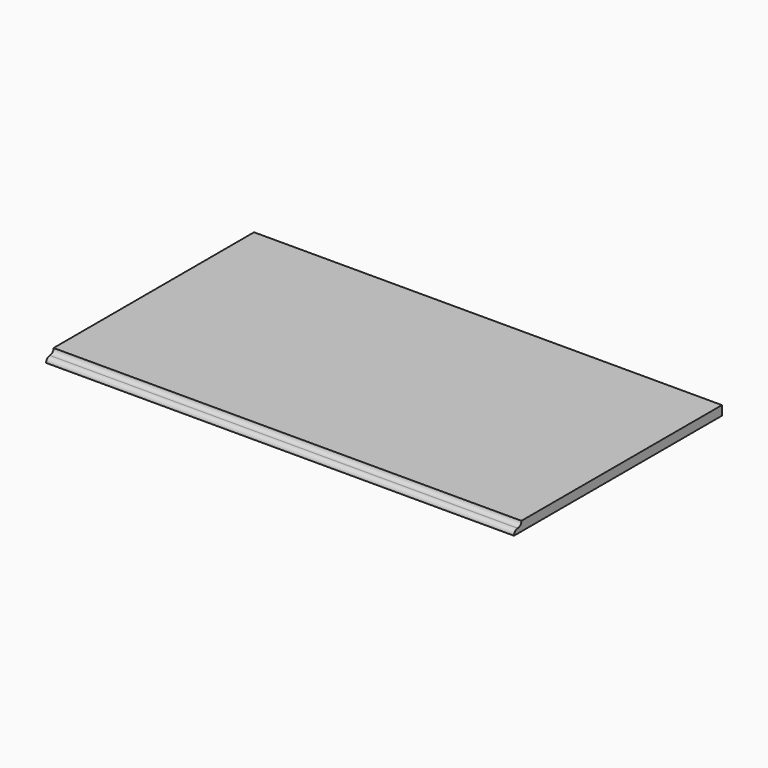
from build123d import *

# Parameters (mm, degrees)
PAD001_DEPTH = 900
SKETCH_W     = 900
SKETCH_H     = 500
PAD_DEPTH    = 18


with BuildPart() as body_decoration_cut:
    # Sketch001 → Pad001 (new body)
    with BuildSketch(Plane.YZ):
        with BuildLine():
            ThreePointArc((9, 9), (15.363961, 11.636039), (18, 18))
            Line((18, 18), (0, 18))
            Line((0, 18), (0, 0))
            ThreePointArc((9, 9), (2.636039, 6.363961), (0, 0))
        make_face()
    extrude(amount=-PAD001_DEPTH)


with BuildPart() as cut_top:
    # Sketch → Pad (new body)
    with BuildSketch(Plane.XY):
        with Locations((-450, 250)):
            Rectangle(SKETCH_W, SKETCH_H)
    extrude(amount=PAD_DEPTH)

    # Cut: cut Body, Decoration, Cut
    add(body_decoration_cut.part, mode=Mode.SUBTRACT)


solid = cut_top.part
